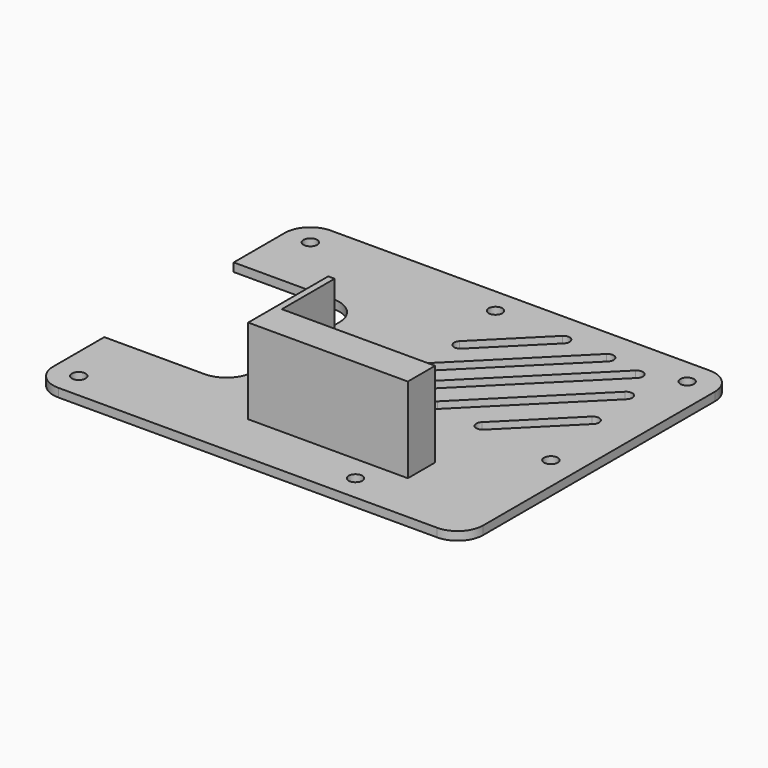
from build123d import *

# Parameters (mm, degrees)
SKETCH_R        = 1.6
PAD_DEPTH       = 2
PAD001_DEPTH    = 22
SKETCH002_W     = 36
SKETCH002_H     = 5
PAD002_DEPTH    = 1.5
POCKET_DEPTH    = 22.001
SKETCH004_R     = 1.6
POCKET001_DEPTH = 22.001
POCKET002_DEPTH = 22.001


with BuildPart() as part:
    # Sketch → Pad (new body)
    with BuildSketch(Plane.XY):
        with BuildLine():
            Line((-32.5, 40), (56.5, 40))
            ThreePointArc((62.5, 34), (60.742641, 38.242641), (56.5, 40))
            Line((62.5, 34), (62.5, -34))
            ThreePointArc((56.5, -40), (60.742641, -38.242641), (62.5, -34))
            Line((56.5, -40), (-32.5, -40))
            ThreePointArc((-38.5, -34), (-36.742641, -38.242641), (-32.5, -40))
            Line((-38.5, -34), (-38.5, 34))
            ThreePointArc((-32.5, 40), (-36.742641, 38.242641), (-38.5, 34))
        make_face()
        with Locations((-32.5, 34)):
            Circle(SKETCH_R, mode=Mode.SUBTRACT)
        with Locations((-32.5, -34)):
            Circle(SKETCH_R, mode=Mode.SUBTRACT)
        with Locations((32.5, -34)):
            Circle(SKETCH_R, mode=Mode.SUBTRACT)
    extrude(amount=PAD_DEPTH)

    # Sketch001 → Pad001 (join)
    with BuildSketch(Plane.XY):
        Polygon((4, -4.5), (2.5, -4.5), (2.5, -21.5), (38.5, -21.5), (38.5, -26.5), (2.5, -26.5), (2.5, -28), (40, -28), (40, -20), (4, -20), align=None)
    extrude(amount=PAD001_DEPTH)

    # Sketch002 (on DatumPlane) → Pad002 (join)
    with BuildSketch(Plane.XY.offset(22)):
        with Locations((20.5, -24)):
            Rectangle(SKETCH002_W, SKETCH002_H)
    extrude(amount=-PAD002_DEPTH)

    # Sketch003 → Pocket (cut, through all)
    with BuildSketch(Plane.XY):
        with BuildLine():
            Line((-38.5, 19), (-15, 19))
            ThreePointArc((-8.5, 12.5), (-10.403806, 17.096194), (-15, 19))
            Line((-8.5, 12.5), (-8.5, -12.5))
            ThreePointArc((-15, -19), (-10.403806, -17.096194), (-8.5, -12.5))
            Line((-15, -19), (-38.5, -19))
            Line((-38.5, -19), (-38.5, 19))
        make_face()
    extrude(amount=POCKET_DEPTH, mode=Mode.SUBTRACT)

    # Sketch004 → Pocket001 (cut, through all)
    with BuildSketch(Plane.XY):
        with Locations((11, 34)):
            Circle(SKETCH004_R)
        with Locations((11, -6)):
            Circle(SKETCH004_R)
        with Locations((56, 34)):
            Circle(SKETCH004_R)
        with Locations((56, -6)):
            Circle(SKETCH004_R)
    extrude(amount=POCKET001_DEPTH, mode=Mode.SUBTRACT)

    # Sketch005 → Pocket002 (cut, through all)
    with BuildSketch(Plane.XY):
        with BuildLine():
            ThreePointArc((28.913069, 31.733732), (28.913069, 33.855052), (26.791749, 33.855052))
            Line((26.791749, 33.855052), (13.397064, 20.460367))
            ThreePointArc((13.397064, 20.460367), (13.397064, 18.339047), (15.518384, 18.339047))
            Line((28.913069, 31.733732), (15.518384, 18.339047))
        make_face()
        with BuildLine():
            ThreePointArc((39.709358, 31.178339), (39.709358, 33.29966), (37.588037, 33.29966))
            Line((37.588037, 33.29966), (11.911862, 7.623484))
            ThreePointArc((11.911862, 7.623484), (11.911862, 5.502164), (14.033182, 5.502164))
            Line((39.709358, 31.178339), (14.033182, 5.502164))
        make_face()
        with BuildLine():
            ThreePointArc((47.991417, 29.403364), (47.991417, 31.524684), (45.870097, 31.524684))
            Line((45.870097, 31.524684), (13.906073, -0.43934))
            ThreePointArc((13.906073, -0.43934), (13.906073, -2.56066), (16.027393, -2.56066))
            Line((47.991417, 29.403364), (16.027393, -2.56066))
        make_face()
        with BuildLine():
            ThreePointArc((51.769813, 21.609057), (51.769813, 23.730377), (49.648493, 23.730377))
            Line((49.648493, 23.730377), (25.136099, -0.782016))
            ThreePointArc((25.136099, -0.782016), (25.136099, -2.903337), (27.25742, -2.903337))
            Line((51.769813, 21.609057), (27.25742, -2.903337))
        make_face()
        with BuildLine():
            ThreePointArc((53.150439, 10.104192), (53.150439, 12.225512), (51.029119, 12.225512))
            Line((51.029119, 12.225512), (36.674542, -2.129064))
            ThreePointArc((36.674542, -2.129064), (36.674542, -4.250385), (38.795863, -4.250385))
            Line((53.150439, 10.104192), (38.795863, -4.250385))
        make_face()
    extrude(amount=POCKET002_DEPTH, mode=Mode.SUBTRACT)


solid = part.part
